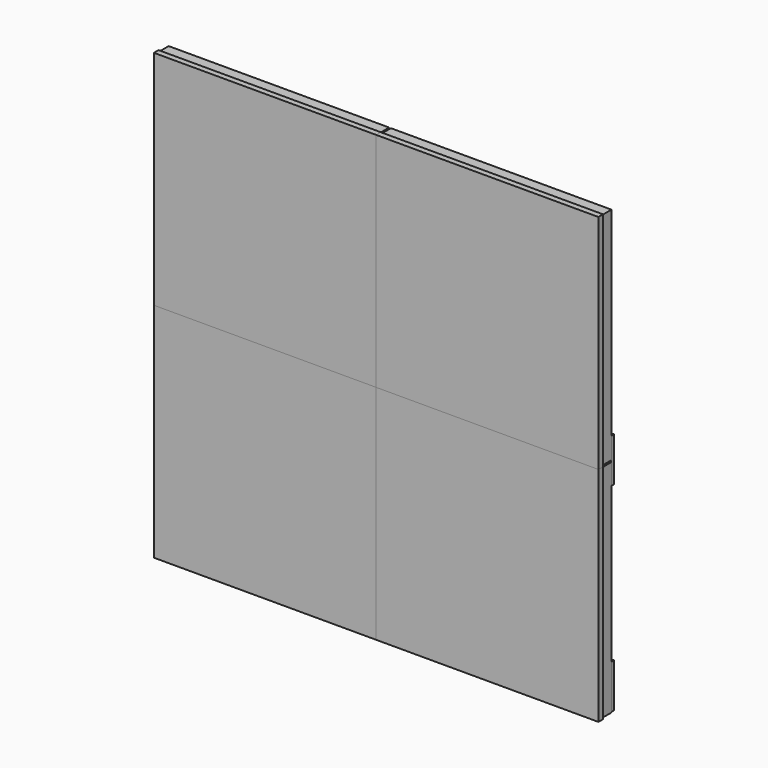
from build123d import *

# Parameters (mm, degrees)
F0_W      = 192
F0_H      = 192
F1_DEPTH  = 15
F2_W      = 192
F2_H      = 192
F2_W_2    = 190.5
F2_H_2    = 190.5
F3_DEPTH  = 10
F5_DEPTH  = 10
F7_D      = 3.3
F7_DEPTH  = 10.1
F7_TIP    = 0.9914200214
F8_R      = 1.65
F9_DEPTH  = 5
F10_R     = 1
F14_W     = 38.1
F14_H     = 304
F15_DEPTH = 3.175
F17_D     = 4.2
F18_D     = 3.3
F19_W     = 106
F19_H     = 38.1
F20_DEPTH = 3.175
F21_D     = 4.2
F23_W     = 382
F23_H     = 38.1
F24_DEPTH = 3.175
F25_D     = 4.2


with BuildPart() as f1:
    # F0 (on Front) → F1 (new body)
    with BuildSketch(Plane.XZ):
        Rectangle(F0_W, F0_H)
    extrude(amount=F1_DEPTH)

    # F2 (on Front) → F3 (cut)
    with BuildSketch(Plane.XZ):
        Rectangle(F2_W, F2_H)
        Rectangle(F2_W_2, F2_H_2, mode=Mode.SUBTRACT)
    extrude(amount=F3_DEPTH, mode=Mode.SUBTRACT)

    # F4 (on face) → F5 (cut)
    with BuildSketch(Plane(origin=(0, 0, 0), x_dir=(-1, 0, 0), z_dir=(0, 1, 0))):
        with BuildLine():
            ThreePointArc((76.75, 72.75), (75.5784271247, 75.5784271247), (72.75, 76.75))
            Line((72.75, 76.75), (-72.75, 76.75))
            ThreePointArc((-72.75, 76.75), (-75.5784271247, 75.5784271247), (-76.75, 72.75))
            Line((-76.75, 72.75), (-76.75, -72.75))
            ThreePointArc((-76.75, -72.75), (-75.5784271247, -75.5784271247), (-72.75, -76.75))
            Line((-72.75, -76.75), (72.75, -76.75))
            ThreePointArc((72.75, -76.75), (75.5784271247, -75.5784271247), (76.75, -72.75))
            Line((76.75, -72.75), (76.75, 72.75))
        make_face()
    extrude(amount=-F5_DEPTH, mode=Mode.SUBTRACT)

    # F7
    with Locations(Plane(origin=(0, 0, 0), x_dir=(-1, 0, 0), z_dir=(0, 1, 0))):
        with Locations((-84, 84), (-84, 0), (-84, -84), (0, -84), (84, -84), (84, 0), (84, 84), (0, 84)):
            Hole(F7_D / 2, depth=F7_DEPTH)
            with Locations((0, 0, -(F7_DEPTH + F7_TIP / 2))):  # 118° drill point
                Cone(0, F7_D / 2, F7_TIP, mode=Mode.SUBTRACT)

    # F8 (on Front) → F9 (join)
    with BuildSketch(Plane.XZ):
        with Locations((84, 24)):
            Circle(F8_R)
        with Locations((-84, 24)):
            Circle(F8_R)
    extrude(amount=-F9_DEPTH)

    # F10
    f10_edges = [f1.edges().sort_by_distance(p)[0] for p in [
        (82.35, 5, 24),
        (-85.65, 5, 24),
    ]]
    fillet(f10_edges, radius=F10_R)


with BuildPart() as f11_1:
    # F11: copy of F1
    add(f1.part.moved(Location((192, 0, 192))))


with BuildPart() as f12_1:
    # F12: copy of F1
    add(f1.part.moved(Location((0, 0, 192))))


with BuildPart() as f13_1:
    # F13: copy of F1
    add(f1.part.moved(Location((192, 0, 0))))


with BuildPart() as f15:
    # F14 (on Front) → F15 (new body)
    with BuildSketch(Plane.XZ):
        with Locations((96, 96)):
            Rectangle(F14_W, F14_H)
    extrude(amount=-F15_DEPTH)

    # F17 (through all)
    with Locations(Plane(origin=(0, 3.175, 0), x_dir=(-1, 0, 0), z_dir=(0, 1, 0))):
        with Locations((-84, 108), (-84, 192), (-108, 192), (-108, 108), (-108, 84), (-108, 0), (-84, 0), (-84, 84)):
            Hole(F17_D / 2)

    # F18 (through all)
    with Locations(Plane(origin=(0, 3.175, 0), x_dir=(-1, 0, 0), z_dir=(0, 1, 0))):
        with Locations((-108, 216), (-84, 216), (-108, 24), (-84, 24)):
            Hole(F18_D / 2)


with BuildPart() as f20:
    # F19 (on Front) → F20 (new body)
    with BuildSketch(Plane.XZ):
        with Locations((-42, 96)):
            Rectangle(F19_W, F19_H)
    extrude(amount=-F20_DEPTH)

    # F21 (through all)
    with Locations(Plane.XZ):
        with Locations((0, 84), (0, 108), (-84, 108), (-84, 84)):
            Hole(F21_D / 2)


with BuildPart() as f22_1:
    # F22: instance of F20
    add(f20.part.mirror(Plane(origin=(96, -12.5, 0), x_dir=(0, 1, 0), z_dir=(1, 0, 0))))


with BuildPart() as f24:
    # F23 (on Front) → F24 (new body)
    with BuildSketch(Plane.XZ):
        with Locations((96, -75.95)):
            Rectangle(F23_W, F23_H)
    extrude(amount=-F24_DEPTH)

    # F25 (through all)
    with Locations(Plane.XZ):
        with Locations((-84, -84), (0, -84), (84, -84), (108, -84), (192, -84), (276, -84)):
            Hole(F25_D / 2)


solid = Compound([f1.part, f11_1.part, f12_1.part, f13_1.part, f15.part, f20.part, f22_1.part, f24.part])
